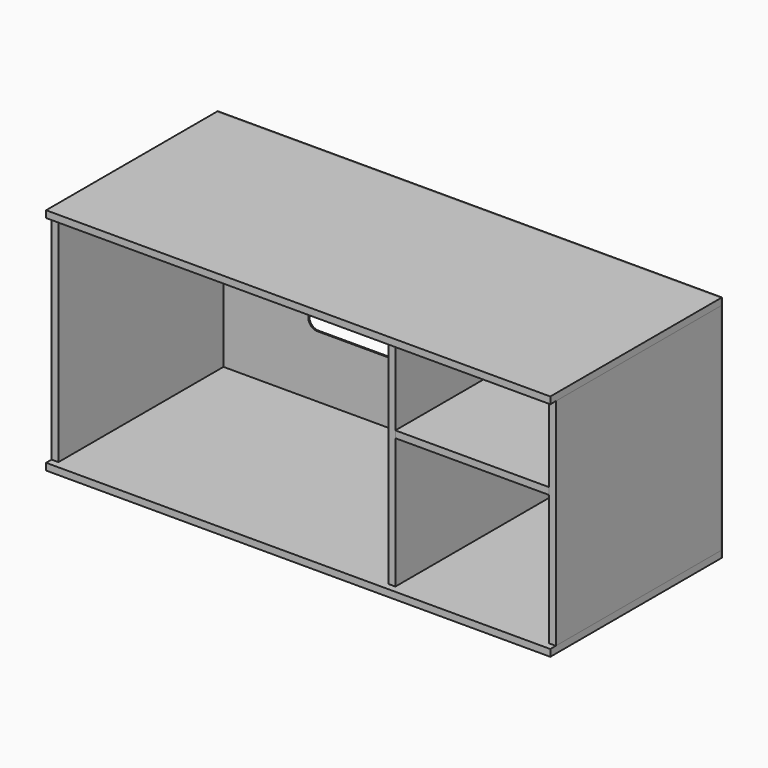
from build123d import *

# Parameters (mm, degrees)
F0_W      = 1100
F0_H      = 450
F1_DEPTH  = 15
F2_W      = 15
F2_H      = 450
F3_DEPTH  = 470
F4_W      = 1100
F4_H      = 15
F5_DEPTH  = 15
F6_W      = 1100
F6_H      = 465
F7_DEPTH  = 15
F8_W      = 335
F8_H      = 15
F9_DEPTH  = 450
F10_W     = 1100
F10_H     = 500
F11_DEPTH = 3


with BuildPart() as f1:
    # F0 (on Top) → F1 (new body)
    with BuildSketch(Plane.XY):
        with Locations((550, 225)):
            Rectangle(F0_W, F0_H)
    extrude(amount=F1_DEPTH)

    # F4 (on face) → F5 (join)
    with BuildSketch(Plane.XZ):
        with Locations((550, 7.5)):
            Rectangle(F4_W, F4_H)
    extrude(amount=F5_DEPTH)


with BuildPart() as f3:
    # F2 (on face) → F3 (new body)
    with BuildSketch(Plane(origin=(0, 0, 0), x_dir=(1, 0, 0), z_dir=(0, 0, -1))):
        with Locations((1092.5, -225)):
            Rectangle(F2_W, F2_H)
    extrude(amount=F3_DEPTH)


with BuildPart() as f3b:
    # F2 (on face) → F3, piece 2 (new body)
    with BuildSketch(Plane(origin=(0, 0, 0), x_dir=(1, 0, 0), z_dir=(0, 0, -1))):
        with Locations((7.5, -225)):
            Rectangle(F2_W, F2_H)
    extrude(amount=F3_DEPTH)


with BuildPart() as f3c:
    # F2 (on face) → F3, piece 3 (new body)
    with BuildSketch(Plane(origin=(0, 0, 0), x_dir=(1, 0, 0), z_dir=(0, 0, -1))):
        with Locations((742.5, -225)):
            Rectangle(F2_W, F2_H)
    extrude(amount=F3_DEPTH)


with BuildPart() as f7:
    # F6 (on face) → F7 (new body)
    with BuildSketch(Plane(origin=(0, 0, -470), x_dir=(1, 0, 0), z_dir=(0, 0, -1))):
        with Locations((550, -217.5)):
            Rectangle(F6_W, F6_H)
    extrude(amount=F7_DEPTH)


with BuildPart() as f9:
    # F8 (on face) → F9 (new body, through all)
    with BuildSketch(Plane.XZ):
        with Locations((917.5, -177.5)):
            Rectangle(F8_W, F8_H)
    extrude(amount=-F9_DEPTH)


with BuildPart() as f11:
    # F10 (on face) → F11 (new body)
    with BuildSketch(Plane(origin=(0, 450, 0), x_dir=(-1, 0, 0), z_dir=(0, 1, 0))):
        with Locations((-550, -235)):
            Rectangle(F10_W, F10_H)
        with BuildLine():
            ThreePointArc((-550, -105), (-544.1421356237, -90.8578643763), (-530, -85))
            Line((-530, -85), (-220, -85))
            ThreePointArc((-220, -85), (-205.8578643763, -90.8578643763), (-200, -105))
            Line((-200, -105), (-200, -315))
            ThreePointArc((-200, -315), (-205.8578643763, -329.1421356237), (-220, -335))
            Line((-220, -335), (-530, -335))
            ThreePointArc((-530, -335), (-544.1421356237, -329.1421356237), (-550, -315))
            Line((-550, -315), (-550, -105))
        make_face(mode=Mode.SUBTRACT)
    extrude(amount=F11_DEPTH)


solid = Compound([f1.part, f3.part, f3b.part, f3c.part, f7.part, f9.part, f11.part])
